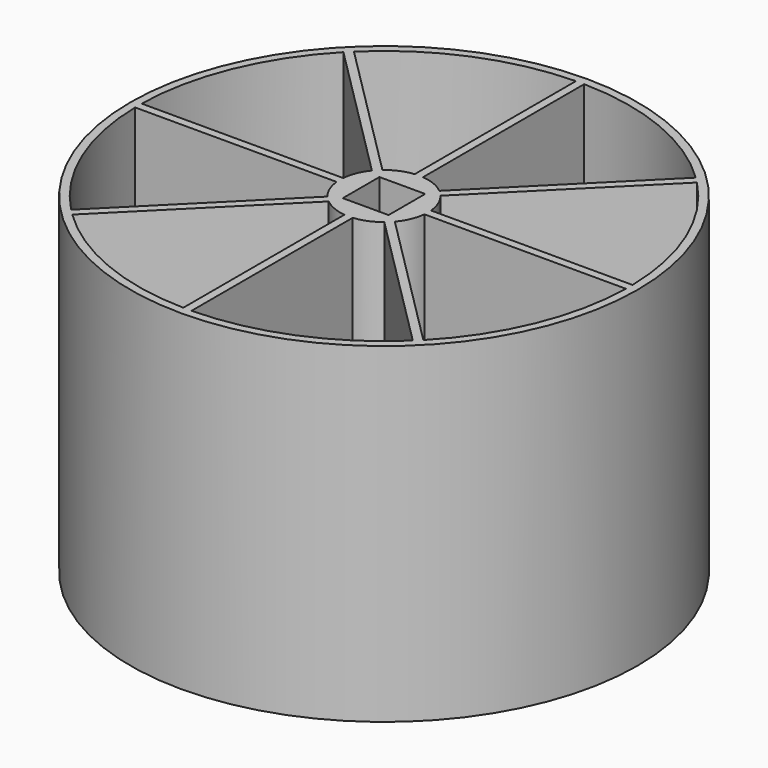
from build123d import *

# Parameters (mm, degrees)
CYLINDER014_R          = 7
CYLINDER014_DEPTH      = 2
TUBE015_R              = 60
TUBE015_R_2            = 46
TUBE015_DEPTH          = 60
BOX004_W               = 8.3
BOX004_H               = 8.3
BOX004_DEPTH           = 60
BOX003_W               = 100
BOX003_H               = 1.5
BOX003_DEPTH           = 60
CYLINDER001_R          = 8
CYLINDER001_DEPTH      = 60
TUBE_R                 = 46
TUBE_R_2               = 44.5
TUBE_DEPTH             = 60
BOX024_W               = 100
BOX024_H               = 1.5
BOX024_DEPTH           = 60
BOX024_PLACEMENT_ANGLE = 45
BOX025_W               = 100
BOX025_H               = 1.5
BOX025_DEPTH           = 60
BOX025_PLACEMENT_ANGLE = 135
BOX_W                  = 100
BOX_H                  = 1.5
BOX_DEPTH              = 60


with BuildPart() as cone:
    # Cone → Cone (revolve)
    with BuildSketch(Plane(origin=(0, 0, 2), x_dir=(1, 0, 0), z_dir=(0, -1, 0))):
        Polygon((0, 0), (7, 0), (4, 10), (0, 10), align=None)
    revolve(axis=Axis((0, 0, 2), (0, 0, 1)))


with BuildPart() as cylinder014:
    # Cylinder014 → Cylinder014 (new body)
    with BuildSketch(Plane.XY):
        Circle(CYLINDER014_R)
    extrude(amount=CYLINDER014_DEPTH)


with BuildPart() as tube015:
    # Tube015 → Tube015 (new body)
    with BuildSketch(Plane.XY):
        Circle(TUBE015_R)
        Circle(TUBE015_R_2, mode=Mode.SUBTRACT)
    extrude(amount=TUBE015_DEPTH)


with BuildPart() as fusion001:
    # Box004 → Box004 (new body)
    with BuildSketch(Plane(origin=(-4.15, -4.15, 0), x_dir=(1, 0, 0), z_dir=(0, 0, 1))):
        with Locations((4.15, 4.15)):
            Rectangle(BOX004_W, BOX004_H)
    extrude(amount=BOX004_DEPTH)

    # Fusion001: union Cone, Cylinder014, Tube015
    add(cone.part)
    add(cylinder014.part)
    add(tube015.part)


with BuildPart() as cube003:
    # Box003 → Box003 (new body)
    with BuildSketch(Plane(origin=(-0.8, 48.5, 0), x_dir=(0, -1, 0), z_dir=(0, 0, 1))):
        with Locations((50, 0.75)):
            Rectangle(BOX003_W, BOX003_H)
    extrude(amount=BOX003_DEPTH)


with BuildPart() as cylinder001:
    # Cylinder001 → Cylinder001 (new body)
    with BuildSketch(Plane.XY):
        Circle(CYLINDER001_R)
    extrude(amount=CYLINDER001_DEPTH)


with BuildPart() as tube:
    # Tube → Tube (new body)
    with BuildSketch(Plane.XY):
        Circle(TUBE_R)
        Circle(TUBE_R_2, mode=Mode.SUBTRACT)
    extrude(amount=TUBE_DEPTH)


with BuildPart() as cone001:
    # Cone001 → Cone001 (revolve)
    with BuildSketch(Plane.XZ):
        Polygon((0, 0), (9, 0), (4, 30), (0, 30), align=None)
    revolve(axis=Axis((0, 0, 0), (0, 0, 1)))


with BuildPart() as cube024:
    # Box024 → Box024 (new body)
    with BuildSketch(Plane.XY):
        with Locations((50, 0.75)):
            Rectangle(BOX024_W, BOX024_H)
    extrude(amount=BOX024_DEPTH)


with BuildPart() as cube024_1:
    # Box024 placement: moved
    add(cube024.part.moved(Location((-32.999286, -34.092597, 0))).rotate(Axis((-32.999286, -34.092597, 0), (0, 0, 1)), BOX024_PLACEMENT_ANGLE))


with BuildPart() as cube025:
    # Box025 → Box025 (new body)
    with BuildSketch(Plane.XY):
        with Locations((50, 0.75)):
            Rectangle(BOX025_W, BOX025_H)
    extrude(amount=BOX025_DEPTH)


with BuildPart() as cube025_1:
    # Box025 placement: moved
    add(cube025.part.moved(Location((34.387991, -33.456201, 0))).rotate(Axis((34.387991, -33.456201, 0), (0, 0, 1)), BOX025_PLACEMENT_ANGLE))


with BuildPart() as obj1:
    # Box → Box (new body)
    with BuildSketch(Plane(origin=(-47, -0.8, 0), x_dir=(1, 0, 0), z_dir=(0, 0, 1))):
        with Locations((50, 0.75)):
            Rectangle(BOX_W, BOX_H)
    extrude(amount=BOX_DEPTH)

    # Fusion: union Cube003, Cylinder001, Tube, Cone001, Cube024, Cube025
    add(cube003.part)
    add(cylinder001.part)
    add(tube.part)
    add(cone001.part)
    add(cube024_1.part)
    add(cube025_1.part)

    # Cut: cut Fusion001
    add(fusion001.part, mode=Mode.SUBTRACT)


with BuildPart() as obj1_1:
    # Cut placement: moved
    add(obj1.part.moved(Location((0, 0, 2.5))))


solid = obj1_1.part
